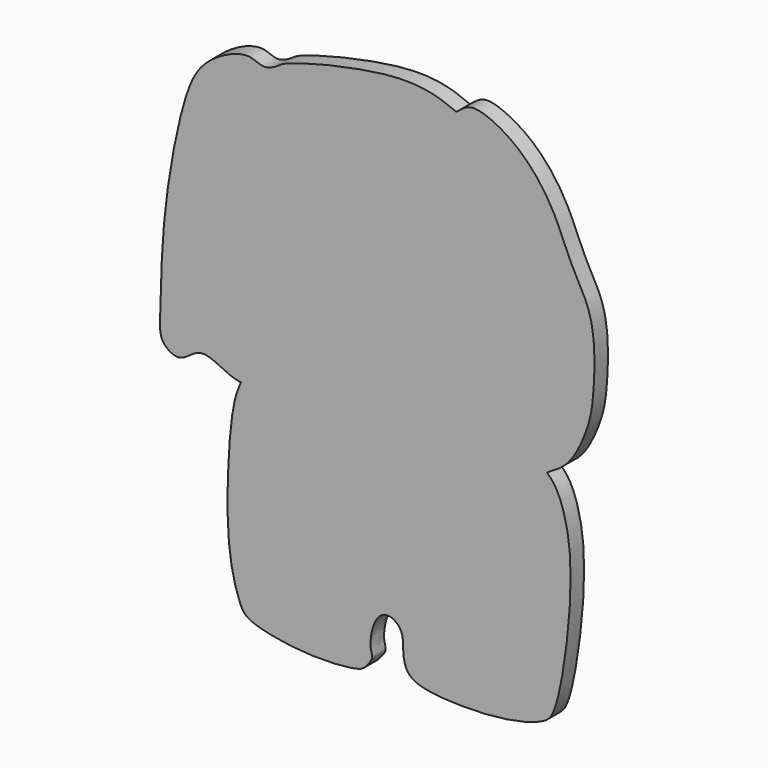
from build123d import *

# Parameters (mm, degrees)
F1_DEPTH = 2.54


with BuildPart() as f1:
    # F0 (on Front) → F1 (new body)
    with BuildSketch(Plane.XZ):
        with BuildLine():
            add(Edge.make_bspline(
                [(82.7550590038, 66.5220692754), (83.8970911688, 67.1587104318), (86.4488031248, 68.5811965055), (89.1497846141, 74.7333244788), (89.8388274009, 79.0784731048), (90.2174445045, 89.2114046795), (86.3595565419, 94.873868993), (84.1707875877, 101.0256297129), (80.7073003576, 106.141510327), (76.6913658887, 109.4992758969), (73.0473751137, 111.1358258711), (70.8826103504, 111.2835384377), (69.7303935937, 110.3259279962), (69.139957428, 109.8352149129)],
                knots=[0, 0, 0, 0, 0.0823940165, 0.1840979644, 0.2727496411, 0.3989596479, 0.505693584, 0.6087174115, 0.7095499248, 0.8029457635, 0.8830776585, 0.9400849028, 1, 1, 1, 1], degree=3))
            add(Edge.make_bspline(
                [(69.139957428, 109.8352149129), (68.0536922039, 110.2774834074), (65.3587097951, 111.3747346002), (57.8503299543, 111.888705047), (43.3508828961, 108.2545665347), (42.192088059, 107.0312622737), (39.96052723, 106.0032828068), (37.6824221948, 107.8116474434), (30.9832084225, 104.647028173), (27.7731439322, 98.2791986186), (24.7081579924, 81.3429786079), (24.7028973452, 69.4073659047), (24.3248549766, 64.934490364), (27.4108691548, 63.1458703659), (29.4110128566, 65.0007780063), (31.5237092883, 65.823045457), (34.9427526287, 63.7399417886), (36.1962211642, 63.5594528027), (36.7042534053, 63.4863004088)],
                knots=[0, 0, 0, 0, 0.0540428665, 0.1340782816, 0.2409878774, 0.2774514796, 0.3169021138, 0.3610117727, 0.4317958974, 0.5067572027, 0.6241356676, 0.7227204333, 0.777967713, 0.823598675, 0.8671827225, 0.9080203239, 0.9627205313, 1, 1, 1, 1], degree=3))
            add(Edge.make_bspline(
                [(36.7042534053, 63.4863004088), (36.3651372944, 62.6744989664), (35.4343181825, 60.4462347428), (34.6078961193, 51.2282534241), (34.6261362637, 40.2370352023), (36.500294664, 33.9060137629), (38.0181710953, 31.953280776), (46.8835255727, 30.3367333621), (54.5543349783, 31.030284668), (55.4812634214, 31.899197468), (56.7430507639, 33.4280605279), (55.9998337403, 34.5773019503), (56.5101839208, 38.5972607018), (58.7311689193, 40.3433816601), (61.3237051685, 38.5215274892), (60.966788637, 35.5049500438), (61.6651431227, 32.9087006073), (64.6324386054, 31.3805682741), (75.5245817403, 31.1945446473), (82.0206791094, 33.0529643349), (83.9661065628, 34.7309152601), (85.7481185874, 43.1382036942), (86.9196205429, 57.0851565729), (84.6110046342, 64.6540769612), (83.244632533, 66.0293179928), (82.7550590038, 66.5220692754)],
                knots=[0, 0, 0, 0, 0.0349258243, 0.0958657631, 0.1648993761, 0.2144832222, 0.2436040082, 0.3040921774, 0.3594814738, 0.3812833681, 0.4072103795, 0.4294609034, 0.4690285586, 0.4997686905, 0.5311487586, 0.5655610338, 0.5967946292, 0.6311811279, 0.6983003806, 0.7502764707, 0.7794034343, 0.8366020784, 0.9144082182, 0.9693323139, 1, 1, 1, 1], degree=3))
        make_face()
    extrude(amount=F1_DEPTH)


solid = f1.part
